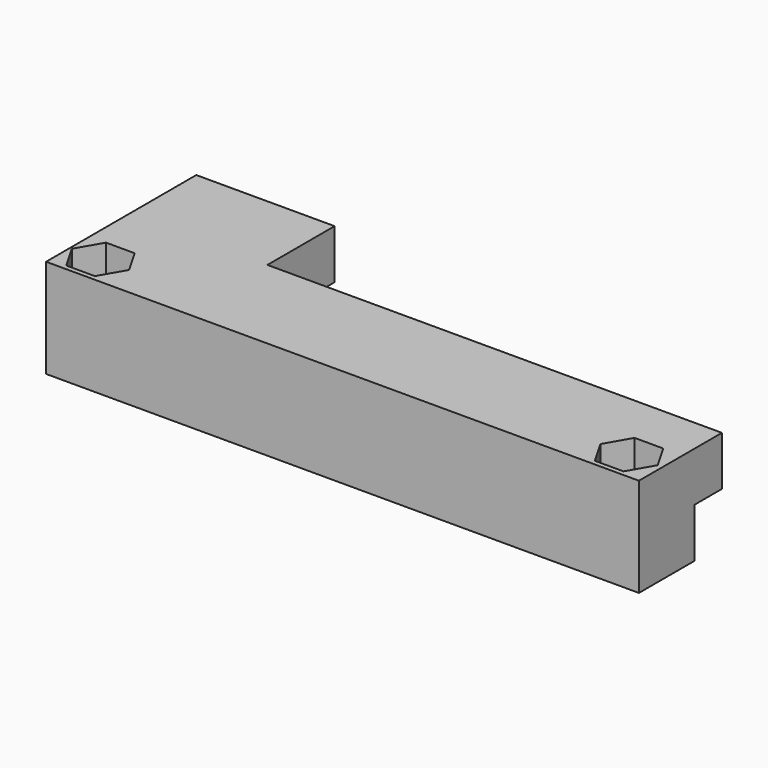
from build123d import *

# Parameters (mm, degrees)
EXTRUDE001_DEPTH = 3
EXTRUDE_DEPTH    = 3
SKETCH_W         = 60
SKETCH_H         = 7
SKETCH_R         = 1.4
PAD_DEPTH        = 10
SKETCH001_W      = 60
SKETCH001_H      = 5
PAD001_DEPTH     = 3.5
SKETCH002_W      = 14
SKETCH002_H      = 5
PAD002_DEPTH     = 12
SKETCH003_R      = 1.9
PAD003_DEPTH     = 4


with BuildPart() as m2_5_pocket:
    # Polygon001 → Extrude001 (new body)
    with BuildSketch(Plane(origin=(56.6, 3, 10), x_dir=(1, 0, 0), z_dir=(0, 0, -1))):
        Polygon((1.45, 2.511474), (2.9, 0), (1.45, -2.511474), (-1.45, -2.511474), (-2.9, 0), (-1.45, 2.511474), align=None)
    extrude(amount=EXTRUDE001_DEPTH)


with BuildPart() as m2_5_pocket001:
    # Polygon → Extrude (new body)
    with BuildSketch(Plane(origin=(3.1, 3, 10), x_dir=(1, 0, 0), z_dir=(0, 0, -1))):
        Polygon((1.45, 2.511474), (2.9, 0), (1.45, -2.511474), (-1.45, -2.511474), (-2.9, 0), (-1.45, 2.511474), align=None)
    extrude(amount=EXTRUDE_DEPTH)


with BuildPart() as cut001:
    # Sketch → Pad (new body)
    with BuildSketch(Plane.XY):
        with Locations((30, 3.5)):
            Rectangle(SKETCH_W, SKETCH_H)
        with Locations((3.1, 3)):
            Circle(SKETCH_R, mode=Mode.SUBTRACT)
        with Locations((56.6, 3)):
            Circle(SKETCH_R, mode=Mode.SUBTRACT)
    extrude(amount=PAD_DEPTH)

    # Sketch001 → Pad001 (new body)
    with BuildSketch(Plane(origin=(0, 7, 0), x_dir=(-1, 0, 0), z_dir=(0, 1, 0))):
        with Locations((-30, 7.5)):
            Rectangle(SKETCH001_W, SKETCH001_H)
    extrude(amount=PAD001_DEPTH)

    # Sketch002 → Pad002 (new body)
    with BuildSketch(Plane(origin=(0, 7, 0), x_dir=(-1, 0, 0), z_dir=(0, 1, 0))):
        with Locations((-7, 7.5)):
            Rectangle(SKETCH002_W, SKETCH002_H)
    extrude(amount=PAD002_DEPTH)

    # Sketch003 → Pad003 (new body)
    with BuildSketch(Plane(origin=(0, 0, 5), x_dir=(1, 0, 0), z_dir=(0, 0, -1))):
        with Locations((7.3, -14.5)):
            Circle(SKETCH003_R)
    extrude(amount=PAD003_DEPTH)

    # Cut: cut M2.5 pocket001
    add(m2_5_pocket001.part, mode=Mode.SUBTRACT)

    # Cut001: cut M2.5 pocket
    add(m2_5_pocket.part, mode=Mode.SUBTRACT)


solid = cut001.part
